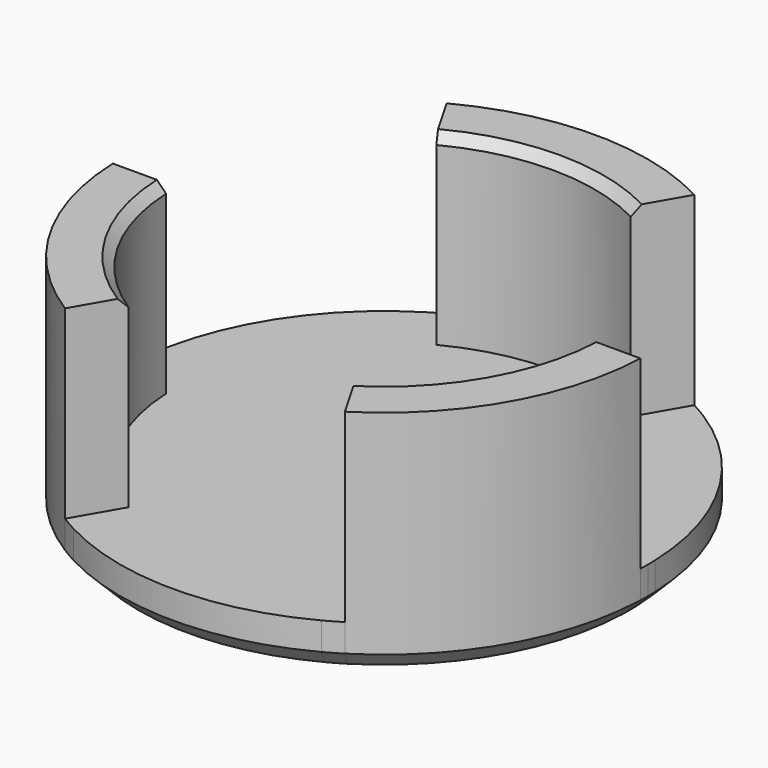
from build123d import *

# Parameters (mm, degrees)
F2_DEPTH = 12.5
F3_DEPTH = 2.5
F4_SIZE  = 0.5
F5_START = 2.5
F5_DEPTH = 22.5
F6_SIZE  = 1


with BuildPart() as f2:
    # F1 (on Top) → F2 (new body)
    with BuildSketch(Plane.XY):
        with BuildLine():
            Line((5.248990136, 10.091517604), (6.6875999824, 12.5832629502))
            ThreePointArc((6.6875999824, 12.5832629502), (0, 14.25), (-6.6875999824, 12.5832629502))
            Line((-6.6875999824, 12.5832629502), (-5.248990136, 10.091517604))
            ThreePointArc((-5.248990136, 10.091517604), (0, 11.375), (5.248990136, 10.091517604))
        make_face()
    extrude(amount=F2_DEPTH)



with BuildPart() as f2b:
    # F1 (on Top) → F2, piece 2 (new body)
    with BuildSketch(Plane.XY):
        with BuildLine():
            Line((11.3640056758, 0.5), (14.2412253686, 0.5))
            ThreePointArc((14.2412253686, 0.5), (12.3408620039, 7.125), (7.5536253862, 12.0832629502))
            Line((7.5536253862, 12.0832629502), (6.1150155398, 9.591517604))
            ThreePointArc((6.1150155398, 9.591517604), (9.851038968, 5.6875), (11.3640056758, 0.5))
        make_face()
    extrude(amount=F2_DEPTH)


with BuildPart() as f2c:
    # F1 (on Top) → F2, piece 3 (new body)
    with BuildSketch(Plane.XY):
        with BuildLine():
            ThreePointArc((7.5536253862, -12.0832629502), (12.3408620039, -7.125), (14.2412253686, -0.5))
            Line((14.2412253686, -0.5), (11.3640056758, -0.5))
            ThreePointArc((11.3640056758, -0.5), (9.851038968, -5.6875), (6.1150155398, -9.591517604))
            Line((6.1150155398, -9.591517604), (7.5536253862, -12.0832629502))
        make_face()
    extrude(amount=F2_DEPTH)


with BuildPart() as f2d:
    # F1 (on Top) → F2, piece 4 (new body)
    with BuildSketch(Plane.XY):
        with BuildLine():
            ThreePointArc((-14.2412253686, -0.5), (-12.3408620039, -7.125), (-7.5536253862, -12.0832629502))
            Line((-7.5536253862, -12.0832629502), (-6.1150155398, -9.591517604))
            ThreePointArc((-6.1150155398, -9.591517604), (-9.851038968, -5.6875), (-11.3640056758, -0.5))
            Line((-11.3640056758, -0.5), (-14.2412253686, -0.5))
        make_face()
    extrude(amount=F2_DEPTH)


with BuildPart() as f2e:
    # F1 (on Top) → F2, piece 5 (new body)
    with BuildSketch(Plane.XY):
        with BuildLine():
            Line((-6.1150155398, 9.591517604), (-7.5536253862, 12.0832629502))
            ThreePointArc((-7.5536253862, 12.0832629502), (-12.3408620039, 7.125), (-14.2412253686, 0.5))
            Line((-14.2412253686, 0.5), (-11.3640056758, 0.5))
            ThreePointArc((-11.3640056758, 0.5), (-9.851038968, 5.6875), (-6.1150155398, 9.591517604))
        make_face()
    extrude(amount=F2_DEPTH)


with BuildPart() as f2_1:
    add(f2.part)

    add(f2b.part)  # F3 merges F2b

    add(f2c.part)  # F3 merges F2c

    add(f2d.part)  # F3 merges F2d

    add(f2e.part)  # F3 merges F2e
    # F1 (on Top) → F3 (join)
    with BuildSketch(Plane.XY):
        with BuildLine():
            Line((11.3640056758, 0.5), (14.2412253686, 0.5))
            ThreePointArc((14.2412253686, 0.5), (12.3408620039, 7.125), (7.5536253862, 12.0832629502))
            Line((7.5536253862, 12.0832629502), (6.1150155398, 9.591517604))
            ThreePointArc((6.1150155398, 9.591517604), (9.851038968, 5.6875), (11.3640056758, 0.5))
        make_face()
        with BuildLine():
            Line((6.1150155398, 9.591517604), (7.5536253862, 12.0832629502))
            ThreePointArc((7.5536253862, 12.0832629502), (7.125, 12.3408620039), (6.6875999824, 12.5832629502))
            Line((6.6875999824, 12.5832629502), (5.248990136, 10.091517604))
            ThreePointArc((5.248990136, 10.091517604), (5.6875, 9.851038968), (6.1150155398, 9.591517604))
        make_face()
        with BuildLine():
            Line((5.248990136, 10.091517604), (6.6875999824, 12.5832629502))
            ThreePointArc((6.6875999824, 12.5832629502), (0, 14.25), (-6.6875999824, 12.5832629502))
            Line((-6.6875999824, 12.5832629502), (-5.248990136, 10.091517604))
            ThreePointArc((-5.248990136, 10.091517604), (0, 11.375), (5.248990136, 10.091517604))
        make_face()
        with BuildLine():
            Line((-5.248990136, 10.091517604), (-6.6875999824, 12.5832629502))
            ThreePointArc((-6.6875999824, 12.5832629502), (-7.125, 12.3408620039), (-7.5536253862, 12.0832629502))
            Line((-7.5536253862, 12.0832629502), (-6.1150155398, 9.591517604))
            ThreePointArc((-6.1150155398, 9.591517604), (-5.6875, 9.851038968), (-5.248990136, 10.091517604))
        make_face()
        with BuildLine():
            Line((-6.1150155398, 9.591517604), (-7.5536253862, 12.0832629502))
            ThreePointArc((-7.5536253862, 12.0832629502), (-12.3408620039, 7.125), (-14.2412253686, 0.5))
            Line((-14.2412253686, 0.5), (-11.3640056758, 0.5))
            ThreePointArc((-11.3640056758, 0.5), (-9.851038968, 5.6875), (-6.1150155398, 9.591517604))
        make_face()
        with BuildLine():
            Line((-11.3640056758, 0.5), (-14.2412253686, 0.5))
            ThreePointArc((-14.2412253686, 0.5), (-14.25, 0), (-14.2412253686, -0.5))
            Line((-14.2412253686, -0.5), (-11.3640056758, -0.5))
            ThreePointArc((-11.3640056758, -0.5), (-11.375, 0), (-11.3640056758, 0.5))
        make_face()
        with BuildLine():
            ThreePointArc((-14.2412253686, -0.5), (-12.3408620039, -7.125), (-7.5536253862, -12.0832629502))
            Line((-7.5536253862, -12.0832629502), (-6.1150155398, -9.591517604))
            ThreePointArc((-6.1150155398, -9.591517604), (-9.851038968, -5.6875), (-11.3640056758, -0.5))
            Line((-11.3640056758, -0.5), (-14.2412253686, -0.5))
        make_face()
        with BuildLine():
            ThreePointArc((-7.5536253862, -12.0832629502), (-7.125, -12.3408620039), (-6.6875999824, -12.5832629502))
            Line((-6.6875999824, -12.5832629502), (-5.248990136, -10.091517604))
            ThreePointArc((-5.248990136, -10.091517604), (-5.6875, -9.851038968), (-6.1150155398, -9.591517604))
            Line((-6.1150155398, -9.591517604), (-7.5536253862, -12.0832629502))
        make_face()
        with BuildLine():
            ThreePointArc((-6.6875999824, -12.5832629502), (0, -14.25), (6.6875999824, -12.5832629502))
            Line((6.6875999824, -12.5832629502), (5.248990136, -10.091517604))
            ThreePointArc((5.248990136, -10.091517604), (0, -11.375), (-5.248990136, -10.091517604))
            Line((-5.248990136, -10.091517604), (-6.6875999824, -12.5832629502))
        make_face()
        with BuildLine():
            ThreePointArc((6.6875999824, -12.5832629502), (7.125, -12.3408620039), (7.5536253862, -12.0832629502))
            Line((7.5536253862, -12.0832629502), (6.1150155398, -9.591517604))
            ThreePointArc((6.1150155398, -9.591517604), (5.6875, -9.851038968), (5.248990136, -10.091517604))
            Line((5.248990136, -10.091517604), (6.6875999824, -12.5832629502))
        make_face()
        with BuildLine():
            ThreePointArc((7.5536253862, -12.0832629502), (12.3408620039, -7.125), (14.2412253686, -0.5))
            Line((14.2412253686, -0.5), (11.3640056758, -0.5))
            ThreePointArc((11.3640056758, -0.5), (9.851038968, -5.6875), (6.1150155398, -9.591517604))
            Line((6.1150155398, -9.591517604), (7.5536253862, -12.0832629502))
        make_face()
        with BuildLine():
            ThreePointArc((14.2412253686, -0.5), (14.2478061733, -0.2500384941), (14.25, 0))
            ThreePointArc((14.25, 0), (14.2478061733, 0.2500384941), (14.2412253686, 0.5))
            Line((14.2412253686, 0.5), (11.3640056758, 0.5))
            ThreePointArc((11.3640056758, 0.5), (11.3722510868, 0.2500604303), (11.375, 0))
            ThreePointArc((11.375, 0), (11.3722510868, -0.2500604303), (11.3640056758, -0.5))
            Line((11.3640056758, -0.5), (14.2412253686, -0.5))
        make_face()
        with BuildLine():
            Line((0.8660254038, 0.5), (11.3640056758, 0.5))
            ThreePointArc((11.3640056758, 0.5), (9.851038968, 5.6875), (6.1150155398, 9.591517604))
            Line((6.1150155398, 9.591517604), (0.8660254038, 0.5))
        make_face()
        with BuildLine():
            ThreePointArc((11.375, 0), (11.3722510868, 0.2500604303), (11.3640056758, 0.5))
            Line((11.3640056758, 0.5), (0.8660254038, 0.5))
            Line((0.8660254038, 0.5), (0.5773502692, 0))
            Line((0.5773502692, 0), (0.8660254038, -0.5))
            Line((0.8660254038, -0.5), (11.3640056758, -0.5))
            ThreePointArc((11.3640056758, -0.5), (11.3722510868, -0.2500604303), (11.375, 0))
        make_face()
        with BuildLine():
            ThreePointArc((-11.3640056758, -0.5), (-9.851038968, -5.6875), (-6.1150155398, -9.591517604))
            Line((-6.1150155398, -9.591517604), (-0.8660254038, -0.5))
            Line((-0.8660254038, -0.5), (-11.3640056758, -0.5))
        make_face()
        with BuildLine():
            Line((-0.8660254038, 0.5), (-6.1150155398, 9.591517604))
            ThreePointArc((-6.1150155398, 9.591517604), (-9.851038968, 5.6875), (-11.3640056758, 0.5))
            Line((-11.3640056758, 0.5), (-0.8660254038, 0.5))
        make_face()
        with BuildLine():
            Line((0, 1), (-5.248990136, 10.091517604))
            ThreePointArc((-5.248990136, 10.091517604), (-5.6875, 9.851038968), (-6.1150155398, 9.591517604))
            Line((-6.1150155398, 9.591517604), (-0.8660254038, 0.5))
            Line((-0.8660254038, 0.5), (-0.2886751346, 0.5))
            Line((-0.2886751346, 0.5), (0, 1))
        make_face()
        with BuildLine():
            Line((0, 1), (5.248990136, 10.091517604))
            ThreePointArc((5.248990136, 10.091517604), (0, 11.375), (-5.248990136, 10.091517604))
            Line((-5.248990136, 10.091517604), (0, 1))
        make_face()
        with BuildLine():
            Line((0.8660254038, 0.5), (6.1150155398, 9.591517604))
            ThreePointArc((6.1150155398, 9.591517604), (5.6875, 9.851038968), (5.248990136, 10.091517604))
            Line((5.248990136, 10.091517604), (0, 1))
            Line((0, 1), (0.2886751346, 0.5))
            Line((0.2886751346, 0.5), (0.8660254038, 0.5))
        make_face()
        with BuildLine():
            ThreePointArc((5.248990136, -10.091517604), (5.6875, -9.851038968), (6.1150155398, -9.591517604))
            Line((6.1150155398, -9.591517604), (0.8660254038, -0.5))
            Line((0.8660254038, -0.5), (0.2886751346, -0.5))
            Line((0.2886751346, -0.5), (0, -1))
            Line((0, -1), (5.248990136, -10.091517604))
        make_face()
        with BuildLine():
            ThreePointArc((6.1150155398, -9.591517604), (9.851038968, -5.6875), (11.3640056758, -0.5))
            Line((11.3640056758, -0.5), (0.8660254038, -0.5))
            Line((0.8660254038, -0.5), (6.1150155398, -9.591517604))
        make_face()
        with BuildLine():
            ThreePointArc((-5.248990136, -10.091517604), (0, -11.375), (5.248990136, -10.091517604))
            Line((5.248990136, -10.091517604), (0, -1))
            Line((0, -1), (-5.248990136, -10.091517604))
        make_face()
        with BuildLine():
            ThreePointArc((-6.1150155398, -9.591517604), (-5.6875, -9.851038968), (-5.248990136, -10.091517604))
            Line((-5.248990136, -10.091517604), (0, -1))
            Line((0, -1), (-0.2886751346, -0.5))
            Line((-0.2886751346, -0.5), (-0.8660254038, -0.5))
            Line((-0.8660254038, -0.5), (-6.1150155398, -9.591517604))
        make_face()
        Polygon((0.5773502692, 0), (0.2886751346, 0.5), (-0.2886751346, 0.5), (-0.5773502692, 0), (-0.2886751346, -0.5), (0.2886751346, -0.5), align=None)
        with BuildLine():
            Line((-0.5773502692, 0), (-0.8660254038, 0.5))
            Line((-0.8660254038, 0.5), (-11.3640056758, 0.5))
            ThreePointArc((-11.3640056758, 0.5), (-11.375, 0), (-11.3640056758, -0.5))
            Line((-11.3640056758, -0.5), (-0.8660254038, -0.5))
            Line((-0.8660254038, -0.5), (-0.5773502692, 0))
        make_face()
        Polygon((0, -1), (0.2886751346, -0.5), (-0.2886751346, -0.5), align=None)
        Polygon((-0.8660254038, -0.5), (-0.2886751346, -0.5), (-0.5773502692, 0), align=None)
        Polygon((-0.5773502692, 0), (-0.2886751346, 0.5), (-0.8660254038, 0.5), align=None)
        Polygon((-0.2886751346, 0.5), (0.2886751346, 0.5), (0, 1), align=None)
        Polygon((0.5773502692, 0), (0.8660254038, 0.5), (0.2886751346, 0.5), align=None)
        Polygon((0.2886751346, -0.5), (0.8660254038, -0.5), (0.5773502692, 0), align=None)
    extrude(amount=F3_DEPTH)

    # F4
    f4_edges = [f2_1.edges().sort_by_distance(p)[0] for p in [
        (0, 11.375, 12.5),
        (9.851039, 5.6875, 12.5),
        (9.851039, -5.6875, 12.5),
        (-9.851039, -5.6875, 12.5),
        (-9.851039, 5.6875, 12.5),
    ]]
    chamfer(f4_edges, length=F4_SIZE)

    # F1 (on Top) → F5 (cut)
    with BuildSketch(Plane.XY.offset(F5_START)):
        with BuildLine():
            ThreePointArc((-14.2412253686, -0.5), (-14.25, 0), (-14.2412253686, 0.5))
            Line((-14.2412253686, 0.5), (-17.5, 0.5))
            Line((-17.5, 0.5), (-17.5, -0.5))
            Line((-17.5, -0.5), (-14.2412253686, -0.5))
        make_face()
        with BuildLine():
            Line((11.3640056758, 0.5), (14.2412253686, 0.5))
            ThreePointArc((14.2412253686, 0.5), (12.3408620039, 7.125), (7.5536253862, 12.0832629502))
            Line((7.5536253862, 12.0832629502), (6.1150155398, 9.591517604))
            ThreePointArc((6.1150155398, 9.591517604), (9.851038968, 5.6875), (11.3640056758, 0.5))
        make_face()
        with BuildLine():
            Line((0.8660254038, 0.5), (11.3640056758, 0.5))
            ThreePointArc((11.3640056758, 0.5), (9.851038968, 5.6875), (6.1150155398, 9.591517604))
            Line((6.1150155398, 9.591517604), (0.8660254038, 0.5))
        make_face()
        with BuildLine():
            Line((-6.1150155398, 9.591517604), (-7.5536253862, 12.0832629502))
            ThreePointArc((-7.5536253862, 12.0832629502), (-12.3408620039, 7.125), (-14.2412253686, 0.5))
            Line((-14.2412253686, 0.5), (-11.3640056758, 0.5))
            ThreePointArc((-11.3640056758, 0.5), (-9.851038968, 5.6875), (-6.1150155398, 9.591517604))
        make_face()
        with BuildLine():
            ThreePointArc((14.2412253686, 0.5), (14.2478061733, 0.2500384941), (14.25, 0))
            ThreePointArc((14.25, 0), (14.2478061733, -0.2500384941), (14.2412253686, -0.5))
            Line((14.2412253686, -0.5), (17.5, -0.5))
            Line((17.5, -0.5), (17.5, 0.5))
            Line((17.5, 0.5), (14.2412253686, 0.5))
        make_face()
    extrude(amount=F5_DEPTH, mode=Mode.SUBTRACT)

    # F6
    f6_edges = [f2_1.edges().sort_by_distance(p)[0] for p in [
        (12.083263, 7.553625, 0),
        (-12.340862, 7.125, 0),
        (-12.340862, -7.125, 0),
        (-14.25, 0, 0),
        (0, -14.25, 0),
    ]]
    chamfer(f6_edges, length=F6_SIZE)


solid = f2_1.part
